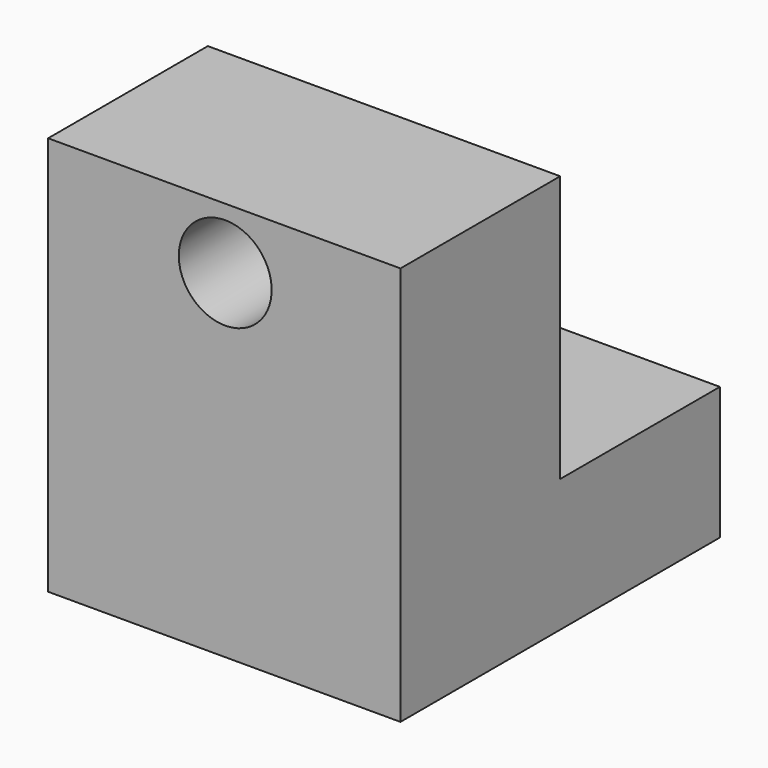
from build123d import *

# Parameters (mm, degrees)
F1_DEPTH = 38.1
F2_R     = 5.020129
F3_DEPTH = 24.13


with BuildPart() as f1:
    # F0 (on Right) → F1 (new body)
    with BuildSketch(Plane.YZ):
        Polygon((21.585431, 43.170862), (0, 43.170862), (0, 0), (43.170862, 0), (43.170862, 14.348196), (21.585431, 14.348196), align=None)
    extrude(amount=F1_DEPTH)

    # F2 (on face) → F3 (cut)
    with BuildSketch(Plane(origin=(0, 21.585431, 0), x_dir=(-1, 0, 0), z_dir=(0, 1, 0))):
        with Locations((-19.150337, 36.581956)):
            Circle(F2_R)
    extrude(amount=-F3_DEPTH, mode=Mode.SUBTRACT)


solid = f1.part
